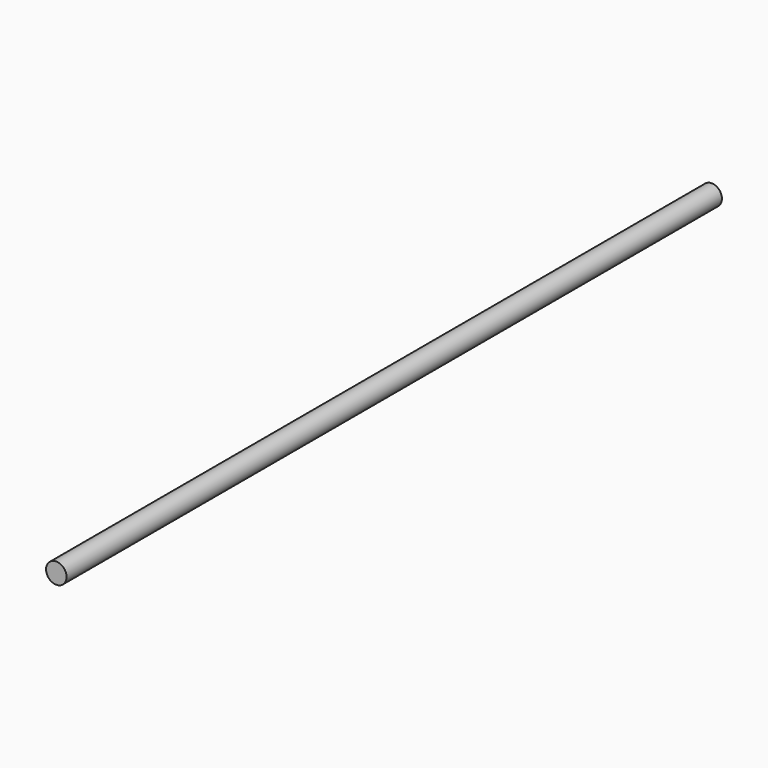
from build123d import *

# Parameters (mm, degrees)
SKETCH_R  = 4
PAD_DEPTH = 320


with BuildPart() as part:
    # Sketch → Pad (new body)
    with BuildSketch(Plane.XZ):
        Circle(SKETCH_R)
    extrude(amount=PAD_DEPTH)


solid = part.part
